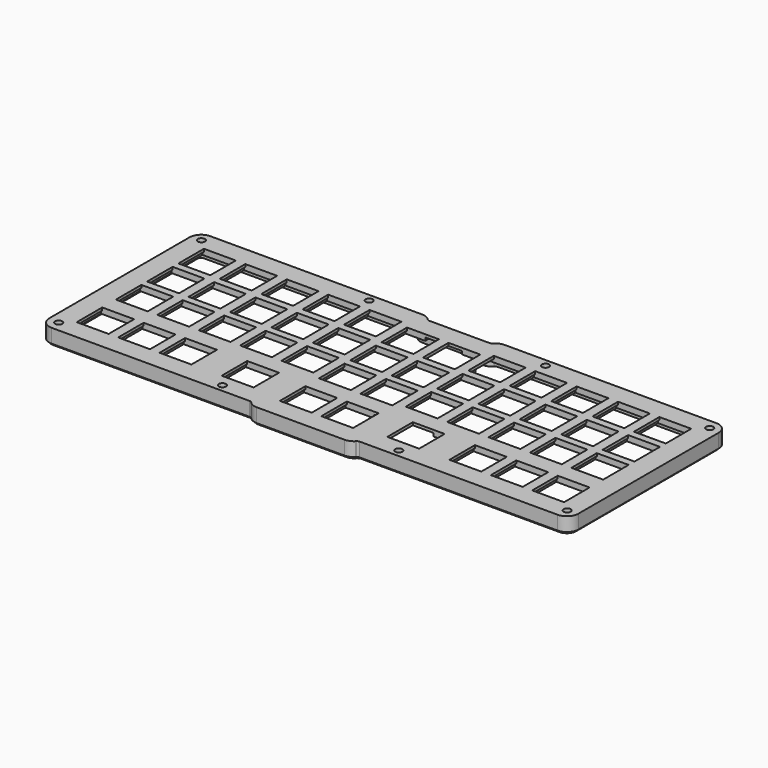
from build123d import *

# Parameters (mm, degrees)
SKETCH036_W     = 115
SKETCH036_H     = 88.375
PAD015_DEPTH    = 2.55
SKETCH037_W     = 13.85
SKETCH037_H     = 13.85
POCKET022_DEPTH = 5
SKETCH038_W     = 13.85
SKETCH038_H     = 13.85
POCKET023_DEPTH = 5
SKETCH039_W     = 13.85
SKETCH039_H     = 13.85
POCKET024_DEPTH = 5
POCKET_DEPTH    = 5
PAD_DEPTH       = 4.5
FILLET_R        = 5
FILLET009_R     = 1.5
CHAMFER_SIZE    = 1
PAD024_DEPTH    = 3.5
POCKET025_DEPTH = 8
CHAMFER011_SIZE = 0.59
SKETCH076_W     = 2.25
SKETCH076_H     = 6
POCKET026_DEPTH = 8
SKETCH078_R     = 1.55
POCKET028_DEPTH = 1.8
SKETCH079_W     = 15
SKETCH079_H     = 13.85
POCKET029_DEPTH = 5
POCKET030_DEPTH = 5


with BuildPart() as plate:
    # Sketch036 → Pad015 (new body)
    with BuildSketch(Plane.XY):
        with Locations((-57.5, 0)):
            Rectangle(SKETCH036_W, SKETCH036_H)
    extrude(amount=-PAD015_DEPTH)

    # Sketch037 → Pocket022 (cut)
    with BuildSketch(Plane.XY):
        with Locations((-9, 26.5625)):
            Rectangle(SKETCH037_W, SKETCH037_H)
        with Locations((-27, 28.6875)):
            Rectangle(SKETCH037_W, SKETCH037_H)
        with Locations((-45, 28.6875)):
            Rectangle(SKETCH037_W, SKETCH037_H)
        with Locations((-63, 28.6875)):
            Rectangle(SKETCH037_W, SKETCH037_H)
        with Locations((-81, 28.6875)):
            Rectangle(SKETCH037_W, SKETCH037_H)
        with Locations((-81, 11.6875)):
            Rectangle(SKETCH037_W, SKETCH037_H)
        with Locations((-63, 11.6875)):
            Rectangle(SKETCH037_W, SKETCH037_H)
        with Locations((-9, 9.5625)):
            Rectangle(SKETCH037_W, SKETCH037_H)
        with Locations((-45, 11.6875)):
            Rectangle(SKETCH037_W, SKETCH037_H)
        with Locations((-27, 11.6875)):
            Rectangle(SKETCH037_W, SKETCH037_H)
        with Locations((-9, -7.4375)):
            Rectangle(SKETCH037_W, SKETCH037_H)
        with Locations((-27, -5.3125)):
            Rectangle(SKETCH037_W, SKETCH037_H)
        with Locations((-45, -5.3125)):
            Rectangle(SKETCH037_W, SKETCH037_H)
        with Locations((-63, -5.3125)):
            Rectangle(SKETCH037_W, SKETCH037_H)
        with Locations((-81, -5.3125)):
            Rectangle(SKETCH037_W, SKETCH037_H)
        with Locations((-99, 28.6875)):
            Rectangle(SKETCH037_W, SKETCH037_H)
        with Locations((-99, 11.6875)):
            Rectangle(SKETCH037_W, SKETCH037_H)
        with Locations((-99, -5.3125)):
            Rectangle(SKETCH037_W, SKETCH037_H)
        with Locations((-99, -26.5625)):
            Rectangle(SKETCH037_W, SKETCH037_H)
        with Locations((-81, -26.5625)):
            Rectangle(SKETCH037_W, SKETCH037_H)
        with Locations((-63, -26.5625)):
            Rectangle(SKETCH037_W, SKETCH037_H)
    extrude(amount=-POCKET022_DEPTH, mode=Mode.SUBTRACT)

    # Sketch038 → Pocket023 (cut)
    with BuildSketch(Plane.XY):
        with Locations((-36, -26.5625)):
            Rectangle(SKETCH038_W, SKETCH038_H)
    extrude(amount=-POCKET023_DEPTH, mode=Mode.SUBTRACT)

    # Sketch039 → Pocket024 (cut)
    with BuildSketch(Plane.XY):
        with Locations((-36, -26.5625)):
            Rectangle(SKETCH039_W, SKETCH039_H)
        with Locations((-9, -28.6875)):
            Rectangle(SKETCH039_W, SKETCH039_H)
    extrude(amount=-POCKET024_DEPTH, mode=Mode.SUBTRACT)

    # Sketch (on Face4 of Pocket024) → Pocket (cut)
    with BuildSketch(Plane.XY):
        Polygon((-115, 44.1875), (-15.807612, 44.1875), (-13.682612, 42.0625), (0, 42.0625), (0, 49.1875), (-120, 49.1875), (-120, -49.1875), (0, -49.1875), (0, -44.1875), (-21.192388, -44.1875), (-23.317388, -42.0625), (-115, -42.0625), align=None)
    extrude(amount=-POCKET_DEPTH, mode=Mode.SUBTRACT)

    # Sketch062 (on Face4 of Pocket) → Pad (join)
    with BuildSketch(Plane(origin=(0, 0, -2.55), x_dir=(1, 0, 0), z_dir=(0, 0, -1))):
        Polygon((-115, 42.0625), (-23.317388, 42.0625), (-21.192388, 44.1875), (0, 44.1875), (0, 40.6875), (-19.742641, 40.6875), (-21.867641, 38.5625), (-111.5, 38.5625), (-111.5, -40.6875), (-17.257359, -40.6875), (-15.132359, -38.5625), (0, -38.5625), (0, -42.0625), (-13.682612, -42.0625), (-15.807612, -44.1875), (-115, -44.1875), align=None)
    extrude(amount=PAD_DEPTH)

    # Fillet
    fillet_edges = [plate.edges().sort_by_distance(p)[0] for p in [
        (-115, -42.0625, -3.525),
        (-21.192388, -44.1875, -3.525),
        (-21.867641, -38.5625, -4.8),
        (-15.132359, 38.5625, -4.8),
        (-15.807612, 44.1875, -3.525),
        (-115, 44.1875, -3.525),
    ]]
    fillet(fillet_edges, radius=FILLET_R)

    # Fillet009
    fillet009_edges = [plate.edges().sort_by_distance(p)[0] for p in [
        (-23.317388, -42.0625, -3.525),
        (-19.742641, -40.6875, -4.8),
        (-111.5, -38.5625, -4.8),
        (-111.5, 40.6875, -4.8),
        (-17.257359, 40.6875, -4.8),
        (-13.682612, 42.0625, -3.525),
    ]]
    fillet(fillet009_edges, radius=FILLET009_R)

    # Chamfer
    chamfer_edges = [plate.edges().sort_by_distance(p)[0] for p in [
        (-66.969354, -42.0625, -7.05),
    ]]
    chamfer(chamfer_edges, length=CHAMFER_SIZE)

    # Sketch063 (on Face7 of Chamfer) → Pad024 (join)
    with BuildSketch(Plane(origin=(0, 42.0625, 0), x_dir=(-1, 0, 0), z_dir=(0, 1, 0))):
        with BuildLine():
            Line((0, -0.700478), (4, -0.700478))
            ThreePointArc((6, -2.700478), (5.414214, -1.286265), (4, -0.700478))
            Line((6, -2.700478), (6, -2.899522))
            ThreePointArc((4, -4.899522), (5.414214, -4.313735), (6, -2.899522))
            Line((4, -4.899522), (0, -4.899522))
            Line((0, -4.899522), (0, -0.700478))
        make_face()
    extrude(amount=-PAD024_DEPTH)

    # Sketch072 (on Face133 of Pad024) → Pocket025 (cut)
    with BuildSketch(Plane(origin=(0, 42.0625, 0), x_dir=(-1, 0, 0), z_dir=(0, 1, 0))):
        with BuildLine():
            Line((0, -1.1), (3.4, -1.1))
            ThreePointArc((4.65, -2.35), (4.283883, -1.466117), (3.4, -1.1))
            Line((4.65, -2.35), (4.65, -3.25))
            ThreePointArc((3.4, -4.5), (4.283883, -4.133883), (4.65, -3.25))
            Line((3.4, -4.5), (0, -4.5))
            Line((0, -4.5), (0, -1.1))
        make_face()
    extrude(amount=-POCKET025_DEPTH, mode=Mode.SUBTRACT)

    # Chamfer011
    chamfer011_edges = [plate.edges().sort_by_distance(p)[0] for p in [
        (-1.7, 42.0625, -4.5),
    ]]
    chamfer(chamfer011_edges, length=CHAMFER011_SIZE)

    # Sketch076 (on Face2 of Chamfer011) → Pocket026 (cut)
    with BuildSketch(Plane.YZ):
        with Locations((39.6875, -4.2)):
            Rectangle(SKETCH076_W, SKETCH076_H)
    extrude(amount=-POCKET026_DEPTH, mode=Mode.SUBTRACT)

    # Sketch078 (on Face8 of Pocket026) → Pocket028 (cut)
    with BuildSketch(Plane.XY):
        with Locations((-110.5, 39.9375)):
            Circle(SKETCH078_R)
        with Locations((-38.333333, 40.9375)):
            Circle(SKETCH078_R)
        with Locations((-110.5, -37.5625)):
            Circle(SKETCH078_R)
        with Locations((-38.333333, -38.8125)):
            Circle(SKETCH078_R)
    extrude(amount=-POCKET028_DEPTH, mode=Mode.SUBTRACT)


with BuildPart() as part_mirroring002:
    # Part__Mirroring002: instance of plate
    add(plate.part.mirror(Plane(origin=(0, 0, 0), x_dir=(0, -1, 0), z_dir=(1, 0, 0))))


with BuildPart() as bottom:
    # Fusion001 base: copy of plate
    add(plate.part)

    # Fusion001: union Part__Mirroring002
    add(part_mirroring002.part)

    # Sketch079 (on DatumPlane) → Pocket029 (cut)
    with BuildSketch(Plane.XY.offset(-1.2)):
        with Locations((-99, 28.6875)):
            Rectangle(SKETCH079_W, SKETCH079_H)
        with Locations((-81, 28.6875)):
            Rectangle(SKETCH079_W, SKETCH079_H)
        with Locations((-63, 28.6875)):
            Rectangle(SKETCH079_W, SKETCH079_H)
        with Locations((-45, 28.6875)):
            Rectangle(SKETCH079_W, SKETCH079_H)
        with Locations((-27, 28.6875)):
            Rectangle(SKETCH079_W, SKETCH079_H)
        with Locations((-99, 11.6875)):
            Rectangle(SKETCH079_W, SKETCH079_H)
        with Locations((-99, -5.3125)):
            Rectangle(SKETCH079_W, SKETCH079_H)
        with Locations((-81, 11.6875)):
            Rectangle(SKETCH079_W, SKETCH079_H)
        with Locations((-81, -5.3125)):
            Rectangle(SKETCH079_W, SKETCH079_H)
        with Locations((-63, 11.6875)):
            Rectangle(SKETCH079_W, SKETCH079_H)
        with Locations((-63, -5.3125)):
            Rectangle(SKETCH079_W, SKETCH079_H)
        with Locations((-45, 11.6875)):
            Rectangle(SKETCH079_W, SKETCH079_H)
        with Locations((-45, -5.3125)):
            Rectangle(SKETCH079_W, SKETCH079_H)
        with Locations((-27, -5.3125)):
            Rectangle(SKETCH079_W, SKETCH079_H)
        with Locations((-27, 11.6875)):
            Rectangle(SKETCH079_W, SKETCH079_H)
        with Locations((-9, 9.5625)):
            Rectangle(SKETCH079_W, SKETCH079_H)
        with Locations((9, 9.5625)):
            Rectangle(SKETCH079_W, SKETCH079_H)
        with Locations((-9, -7.4375)):
            Rectangle(SKETCH079_W, SKETCH079_H)
        with Locations((27, 11.6875)):
            Rectangle(SKETCH079_W, SKETCH079_H)
        with Locations((45, 28.6875)):
            Rectangle(SKETCH079_W, SKETCH079_H)
        with Locations((63, 28.6875)):
            Rectangle(SKETCH079_W, SKETCH079_H)
        with Locations((45, 11.6875)):
            Rectangle(SKETCH079_W, SKETCH079_H)
        with Locations((45, -5.3125)):
            Rectangle(SKETCH079_W, SKETCH079_H)
        with Locations((63, -5.3125)):
            Rectangle(SKETCH079_W, SKETCH079_H)
        with Locations((63, 11.6875)):
            Rectangle(SKETCH079_W, SKETCH079_H)
        with Locations((81, 28.6875)):
            Rectangle(SKETCH079_W, SKETCH079_H)
        with Locations((99, 28.6875)):
            Rectangle(SKETCH079_W, SKETCH079_H)
        with Locations((81, 11.6875)):
            Rectangle(SKETCH079_W, SKETCH079_H)
        with Locations((99, 11.6875)):
            Rectangle(SKETCH079_W, SKETCH079_H)
        with Locations((81, -5.3125)):
            Rectangle(SKETCH079_W, SKETCH079_H)
        with Locations((99, -5.3125)):
            Rectangle(SKETCH079_W, SKETCH079_H)
        with Locations((-9, 26.5625)):
            Rectangle(SKETCH079_W, SKETCH079_H)
        with Locations((9, 26.5625)):
            Rectangle(SKETCH079_W, SKETCH079_H)
        with Locations((27, 28.6875)):
            Rectangle(SKETCH079_W, SKETCH079_H)
        with Locations((27, -5.3125)):
            Rectangle(SKETCH079_W, SKETCH079_H)
        with Locations((9, -7.4375)):
            Rectangle(SKETCH079_W, SKETCH079_H)
        with Locations((-99, -26.5625)):
            Rectangle(SKETCH079_W, SKETCH079_H)
        with Locations((-81, -26.5625)):
            Rectangle(SKETCH079_W, SKETCH079_H)
        with Locations((-63, -26.5625)):
            Rectangle(SKETCH079_W, SKETCH079_H)
        with Locations((-36, -26.5625)):
            Rectangle(SKETCH079_W, SKETCH079_H)
        with Locations((-9, -28.6875)):
            Rectangle(SKETCH079_W, SKETCH079_H)
        with Locations((9, -28.6875)):
            Rectangle(SKETCH079_W, SKETCH079_H)
        with Locations((36, -26.5625)):
            Rectangle(SKETCH079_W, SKETCH079_H)
        with Locations((63, -26.5625)):
            Rectangle(SKETCH079_W, SKETCH079_H)
        with Locations((81, -26.5625)):
            Rectangle(SKETCH079_W, SKETCH079_H)
        with Locations((99, -26.5625)):
            Rectangle(SKETCH079_W, SKETCH079_H)
    extrude(amount=-POCKET029_DEPTH, mode=Mode.SUBTRACT)

    # Sketch080 (on DatumPlane) → Pocket030 (cut)
    with BuildSketch(Plane.XY.offset(-1.2)):
        Polygon((-8, 40.8125), (8, 40.8125), (8, 33.4875), (2.075, 33.4875), (2.075, 22.4875), (-2.075, 22.4875), (-2.075, 33.4875), (-8, 33.4875), align=None)
        Polygon((20.075, 35.6125), (20.075, 26.4875), (15.925, 26.4875), (15.925, 33.4875), (15.925, 35.6125), align=None)
        Polygon((38.075, -12.2375), (38.075, -19.6375), (29.075, -19.6375), (29.075, -35.6125), (15.925, -35.6125), (15.925, -21.7625), (13.925, -21.7625), (13.925, -14.3625), (15.925, -14.3625), (15.925, -11.2375), (20.075, -11.2375), (20.075, -12.2375), align=None)
    extrude(amount=-POCKET030_DEPTH, mode=Mode.SUBTRACT)


solid = bottom.part
